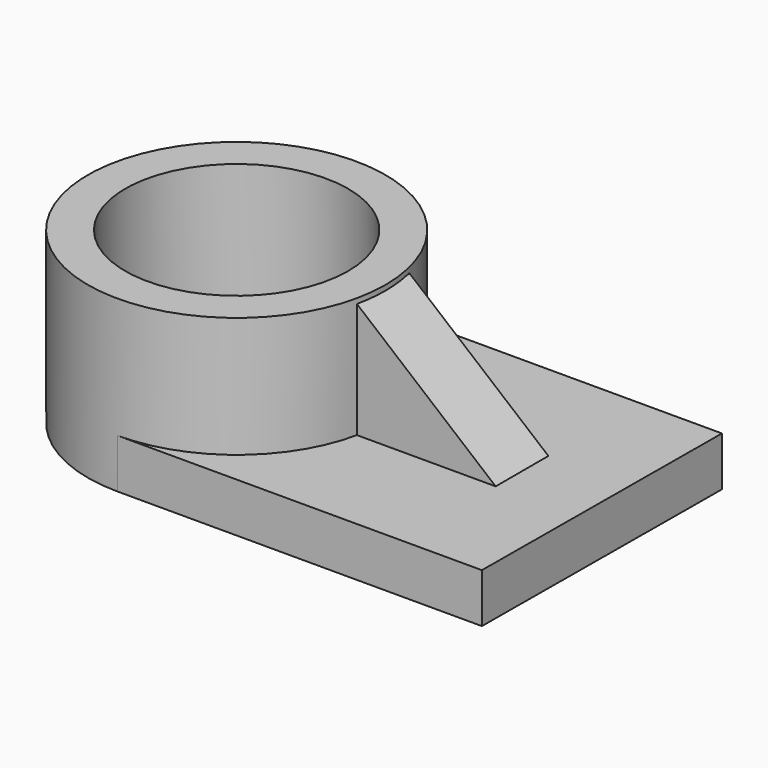
from build123d import *

# Parameters (mm, degrees)
F0_R     = 22.260195
F1_DEPTH = 25.4
F3_DEPTH = 7.366
F4_R     = 16.674385
F5_DEPTH = 25.401
F6_W     = 20.843665
F6_H     = 9.852567
F7_DEPTH = 17.272
F9_DEPTH = 26.967665


with BuildPart() as f1:
    # F0 (on Top) → F1 (new body)
    with BuildSketch(Plane.XY):
        Circle(F0_R)
    extrude(amount=F1_DEPTH)

    # F2 (on face) → F3 (join)
    with BuildSketch(Plane(origin=(0, 0, 0), x_dir=(1, 0, 0), z_dir=(0, 0, -1))):
        with BuildLine():
            ThreePointArc((22.260195, 0), (15.740335, -15.740335), (0, -22.260195))
            Line((0, -22.260195), (54.766204, -22.260195))
            Line((54.766204, -22.260195), (54.480962, 22.260195))
            Line((54.480962, 22.260195), (0, 22.260195))
            ThreePointArc((0, 22.260195), (15.740335, 15.740335), (22.260195, 0))
        make_face()
    extrude(amount=-F3_DEPTH)

    # F4 (on face) → F5 (cut, through all)
    with BuildSketch(Plane.XY.offset(25.4)):
        Circle(F4_R)
    extrude(amount=-F5_DEPTH, mode=Mode.SUBTRACT)

    # F6 (on face) → F7 (join)
    with BuildSketch(Plane.XY.offset(7.366)):
        with Locations((32.079024, 0.219813)):
            Rectangle(F6_W, F6_H)
    extrude(amount=F7_DEPTH)

    # F8 (on face) → F9 (cut, through all)
    with BuildSketch(Plane.XZ.offset(4.706471)):
        Polygon((42.500857, 24.638), (21.756962, 24.638), (42.500857, 7.366), align=None)
    extrude(amount=-F9_DEPTH, mode=Mode.SUBTRACT)


solid = f1.part
